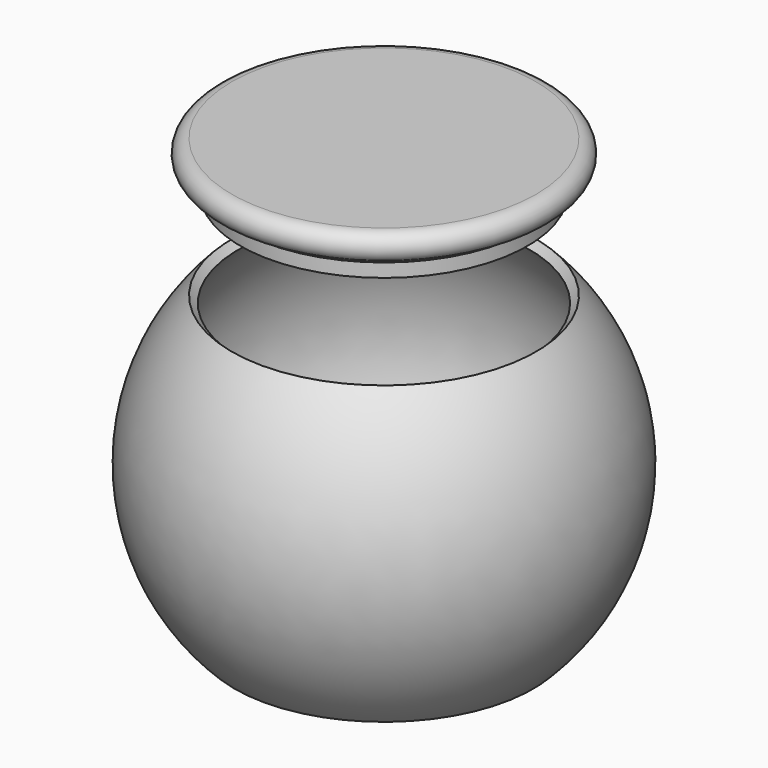
from build123d import *


with BuildPart() as body:
    # Sketch → Revolution (revolve)
    with BuildSketch(Plane.YZ):
        with BuildLine():
            Line((-77.090742, 0), (0, 0))
            Line((0, 5), (0, 0))
            Line((-75, 5), (0, 5))
            ThreePointArc((-75, 150), (-104.31323, 77.5), (-75, 5))
            Line((-78.535534, 153.535534), (-75, 150))
            ThreePointArc((-78.535534, 153.535534), (-109.307705, 76.471398), (-77.090742, 0))
        make_face()
    revolve(axis=Axis((0, 0, 0), (0, 0, 1)))


with BuildPart() as lid:
    # Sketch001 → Revolution001 (revolve)
    with BuildSketch(Plane.XZ):
        with BuildLine():
            Line((0, 225), (0, 200))
            Line((0, 200), (-74, 200))
            Line((-74, 207.5), (-74, 200))
            Line((-75, 207.5), (-74, 207.5))
            Line((-75, 207.5), (-78.535534, 211.035534))
            ThreePointArc((-78.535534, 225), (-85.517767, 218.017767), (-78.535534, 211.035534))
            Line((0, 225), (-78.535534, 225))
        make_face()
    revolve(axis=Axis((0, 0, 0), (0, 0, 1)))


solid = Compound([body.part, lid.part])
